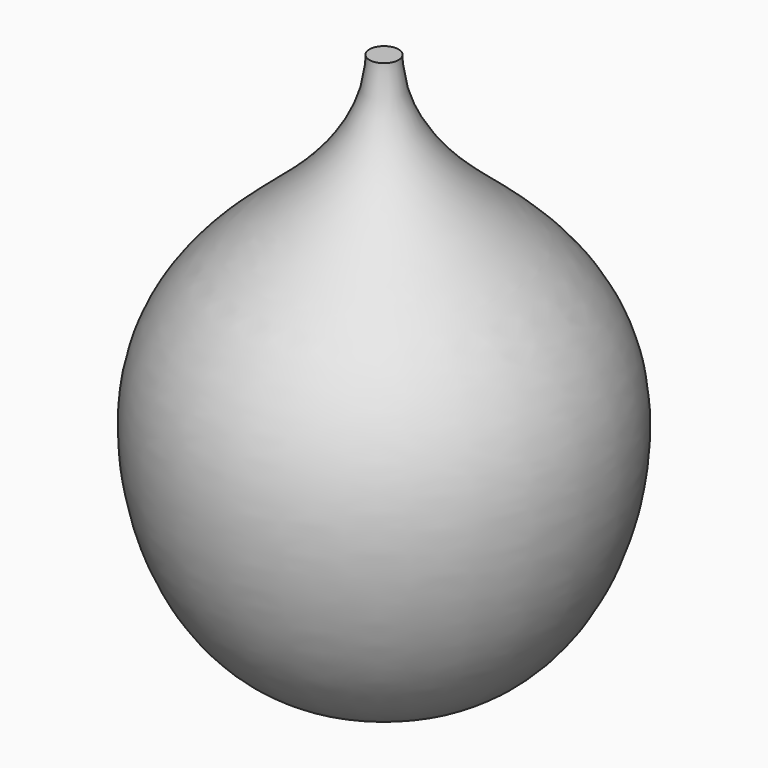
from build123d import *


with BuildPart() as f1:
    # F0 (on Front) → F1 (revolve)
    with BuildSketch(Plane.XZ):
        with BuildLine():
            Line((-100.871699354, 0), (0, 0))
            Line((0, 0), (0, 500))
            Line((0, 500), (-13.6363636364, 500))
            add(Edge.make_bspline(
                [(-100.871699354, 0), (-176.8658659888, 44.7081957839), (-228.5174188944, 239.4398406162), (-121.0771911125, 350.9717469539), (-65.7602080075, 391.529590662), (-13.6363636364, 455.2759224994), (-13.6363636364, 500)],
                knots=[0, 0, 0, 0, 0.3380112538, 0.5891233406, 0.7684564666, 1, 1, 1, 1], degree=3))
        make_face()
    revolve(axis=Axis((0, 0, 250), (0, 0, 1)))


solid = f1.part
